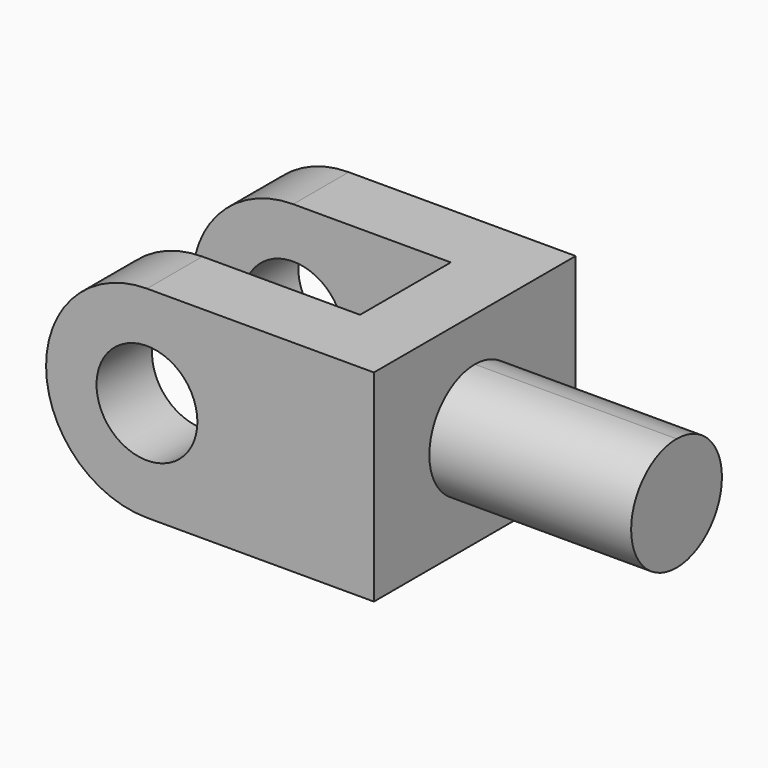
from build123d import *

# Parameters (mm, degrees)
F0_R     = 203.2
F0_W     = 812.8
F0_H     = 457.2
F1_DEPTH = 1016
F2_W     = 635
F2_H     = 457.2
F2_W_2   = 406.4
F3_DEPTH = 812.801
F5_DEPTH = 812.8


with BuildPart() as f1:
    # F0 (on Front) → F1 (new body)
    with BuildSketch(Plane.XZ):
        with BuildLine():
            Line((914.4, 406.4), (0, 406.4))
            ThreePointArc((0, 406.4), (-406.4, 0), (0, -406.4))
            Line((0, -406.4), (914.4, -406.4))
            Line((914.4, -406.4), (914.4, -228.6))
            Line((914.4, -228.6), (914.4, 228.6))
            Line((914.4, 228.6), (914.4, 406.4))
        make_face()
        Circle(F0_R, mode=Mode.SUBTRACT)
        with Locations((1320.8, 0)):
            Rectangle(F0_W, F0_H)
    extrude(amount=F1_DEPTH)

    # F2 (on face) → F3 (cut, through all)
    with BuildSketch(Plane.XY.offset(406.4)):
        with Locations((317.5, -508)):
            Rectangle(F2_W, F2_H)
        with Locations((-203.2, -508)):
            Rectangle(F2_W_2, F2_H)
    extrude(amount=-F3_DEPTH, mode=Mode.SUBTRACT)

    # F4 (on face) → F5 (cut)
    with BuildSketch(Plane.YZ.offset(1727.2)):
        with BuildLine():
            ThreePointArc((-508, -228.6), (-736.6, 0), (-508, 228.6))
            Line((-508, 228.6), (-1016, 228.6))
            Line((-1016, 228.6), (-1016, -228.6))
            Line((-1016, -228.6), (-508, -228.6))
        make_face()
        with BuildLine():
            ThreePointArc((-508, 228.6), (-346.35539, 161.64461), (-279.4, 0))
            ThreePointArc((-279.4, 0), (-346.35539, -161.64461), (-508, -228.6))
            Line((-508, -228.6), (0, -228.6))
            Line((0, -228.6), (0, 228.6))
            Line((0, 228.6), (-508, 228.6))
        make_face()
    extrude(amount=-F5_DEPTH, mode=Mode.SUBTRACT)


solid = f1.part
